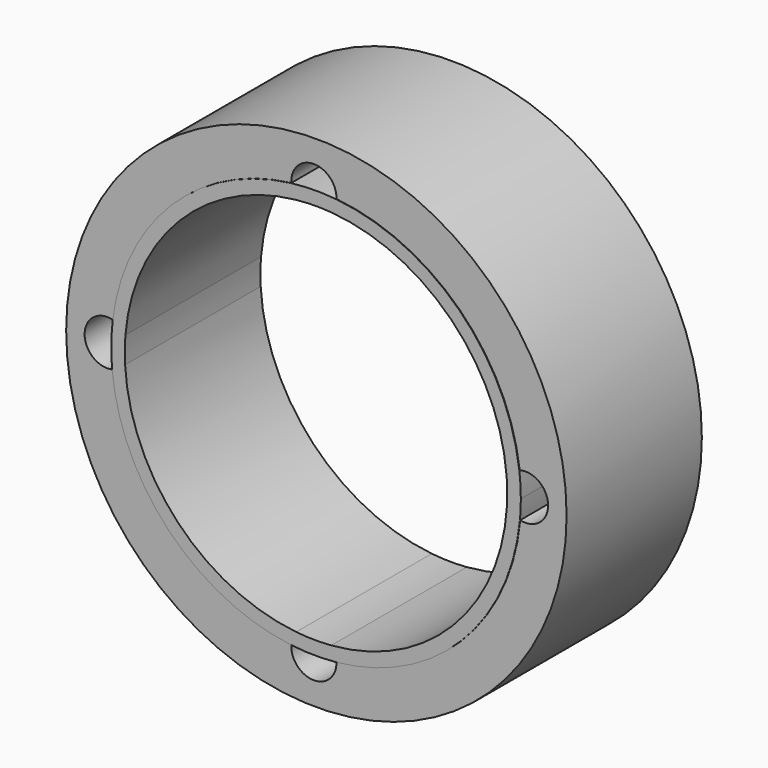
from build123d import *

# Parameters (mm, degrees)
F0_R     = 27.675
F1_DEPTH = 18.7
F2_DEPTH = 18.75


with BuildPart() as f1:
    # F0 (on Front) → F1 (new body)
    with BuildSketch(Plane.XZ):
        Circle(F0_R)
        with BuildLine():
            ThreePointArc((2.2210811646, 22.5408362414), (15.8355393529, 16.1943877131), (22.4854166695, 2.7255342964))
            ThreePointArc((22.4854166695, 2.7255342964), (25.6307038392, 0.3438440981), (22.5504393602, -2.1213638688))
            ThreePointArc((22.5504393602, -2.1213638688), (16.0513479269, -15.9805109346), (2.2210811646, -22.5408362414))
            ThreePointArc((2.2210811646, -22.5408362414), (-0.3077436463, -25.1350233283), (-2.772295443, -22.4796992412))
            ThreePointArc((-2.772295443, -22.4796992412), (-16.2457895857, -15.7828014224), (-22.5504393602, -2.1213638688))
            ThreePointArc((-22.5504393602, -2.1213638688), (-25.6307038392, 0.3438440981), (-22.4854166695, 2.7255342964))
            ThreePointArc((-22.4854166695, 2.7255342964), (-16.0326156149, 15.9993042519), (-2.772295443, 22.4796992412))
            ThreePointArc((-2.772295443, 22.4796992412), (-0.3077436463, 25.1350233283), (2.2210811646, 22.5408362414))
        make_face(mode=Mode.SUBTRACT)
    extrude(amount=F1_DEPTH)


with BuildPart() as f2:
    # F0 (on Front) → F2 (new body)
    with BuildSketch(Plane.XZ):
        with BuildLine():
            ThreePointArc((1.6825905233, 21.0829644294), (14.935740279, 14.9748509949), (21.0784920736, 1.7377203178))
            ThreePointArc((21.0784920736, 1.7377203178), (21.6943787217, 2.3563596337), (22.4854166695, 2.7255342964))
            ThreePointArc((22.4854166695, 2.7255342964), (15.8355393529, 16.1943877131), (2.2210811646, 22.5408362414))
            ThreePointArc((2.2210811646, 22.5408362414), (2.0679999936, 21.7689930599), (1.6825905233, 21.0829644294))
        make_face()
        with BuildLine():
            ThreePointArc((-2.1982723208, 21.0354486238), (-0.2589331323, 21.1484149201), (1.6825905233, 21.0829644294))
            ThreePointArc((1.6825905233, 21.0829644294), (2.0679999936, 21.7689930599), (2.2210811646, 22.5408362414))
            ThreePointArc((2.2210811646, 22.5408362414), (-0.2772971842, 22.6483025031), (-2.772295443, 22.4796992412))
            ThreePointArc((-2.772295443, 22.4796992412), (-2.6003626862, 21.7118354064), (-2.1982723208, 21.0354486238))
        make_face()
        with BuildLine():
            ThreePointArc((-21.0784920736, 1.7377203178), (-15.1179535524, 14.7908749028), (-2.1982723208, 21.0354486238))
            ThreePointArc((-2.1982723208, 21.0354486238), (-2.6003626862, 21.7118354064), (-2.772295443, 22.4796992412))
            ThreePointArc((-2.772295443, 22.4796992412), (-16.0326156149, 15.9993042519), (-22.4854166695, 2.7255342964))
            ThreePointArc((-22.4854166695, 2.7255342964), (-21.6943787217, 2.3563596337), (-21.0784920736, 1.7377203178))
        make_face()
        with BuildLine():
            ThreePointArc((-21.1175221714, -1.1716472769), (-21.1480970655, 0.2837084931), (-21.0784920736, 1.7377203178))
            ThreePointArc((-21.0784920736, 1.7377203178), (-21.6943787217, 2.3563596337), (-22.4854166695, 2.7255342964))
            ThreePointArc((-22.4854166695, 2.7255342964), (-22.6479621056, 0.3038296628), (-22.5504393602, -2.1213638688))
            ThreePointArc((-22.5504393602, -2.1213638688), (-21.7497826783, -1.7735422992), (-21.1175221714, -1.1716472769))
        make_face()
        with BuildLine():
            ThreePointArc((-2.772295443, -22.4796992412), (-2.6003626862, -21.7118354064), (-2.1982723208, -21.0354486238))
            ThreePointArc((-2.1982723208, -21.0354486238), (-15.3149998102, -14.58675018), (-21.1175221714, -1.1716472769))
            ThreePointArc((-21.1175221714, -1.1716472769), (-21.7497826783, -1.7735422992), (-22.5504393602, -2.1213638688))
            ThreePointArc((-22.5504393602, -2.1213638688), (-16.2457895857, -15.7828014224), (-2.772295443, -22.4796992412))
        make_face()
        with BuildLine():
            ThreePointArc((2.2210811646, -22.5408362414), (2.0679999936, -21.7689930599), (1.6825905233, -21.0829644294))
            ThreePointArc((1.6825905233, -21.0829644294), (-0.2589331323, -21.1484149201), (-2.1982723208, -21.0354486238))
            ThreePointArc((-2.1982723208, -21.0354486238), (-2.6003626862, -21.7118354064), (-2.772295443, -22.4796992412))
            ThreePointArc((-2.772295443, -22.4796992412), (-0.2772971842, -22.6483025031), (2.2210811646, -22.5408362414))
        make_face()
        with BuildLine():
            ThreePointArc((22.5504393602, -2.1213638688), (21.7497826783, -1.7735422992), (21.1175221714, -1.1716472769))
            ThreePointArc((21.1175221714, -1.1716472769), (15.1352708073, -14.7731539487), (1.6825905233, -21.0829644294))
            ThreePointArc((1.6825905233, -21.0829644294), (2.0679999936, -21.7689930599), (2.2210811646, -22.5408362414))
            ThreePointArc((2.2210811646, -22.5408362414), (16.0513479269, -15.9805109346), (22.5504393602, -2.1213638688))
        make_face()
        with BuildLine():
            ThreePointArc((21.0784920736, 1.7377203178), (21.1321154568, 0.8695954931), (21.15, 0))
            ThreePointArc((21.15, 0), (21.1418789837, -0.586048665), (21.1175221714, -1.1716472769))
            ThreePointArc((21.1175221714, -1.1716472769), (21.7497826783, -1.7735422992), (22.5504393602, -2.1213638688))
            ThreePointArc((22.5504393602, -2.1213638688), (22.6250961491, -1.0618494461), (22.65, 0))
            ThreePointArc((22.65, 0), (22.6088167267, 1.3652495078), (22.4854166695, 2.7255342964))
            ThreePointArc((22.4854166695, 2.7255342964), (21.6943787217, 2.3563596337), (21.0784920736, 1.7377203178))
        make_face()
    extrude(amount=F2_DEPTH)


solid = Compound([f1.part, f2.part])
